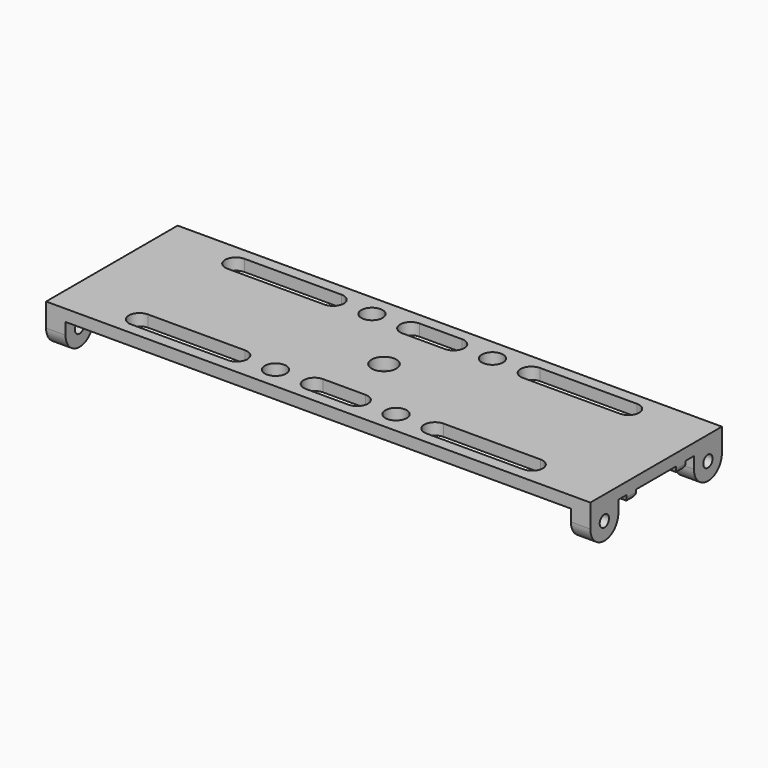
from build123d import *

# Parameters (mm, degrees)
SKETCH030_W     = 42.3
SKETCH030_H     = 3
SKETCH031_W     = 42.3
SKETCH031_H     = 3
SKETCH032_R     = 1.5
PAD014_DEPTH    = 5
SKETCH033_R     = 1.500029
PAD015_DEPTH    = 5
SKETCH038_R     = 2.75
SKETCH038_R_2   = 3.175
POCKET005_DEPTH = 5
SKETCH044_W     = 140
SKETCH044_H     = 3
PAD018_DEPTH    = 2
FILLET004_R     = 1.4
SKETCH046_W     = 15.725
SKETCH046_H     = 15.725
SKETCH046_R     = 3.175
PAD020_DEPTH    = 2
FILLET005_R     = 1.3


with BuildPart() as part:
    # Sketch030 (on Face1 of Binder013) → AdditiveLoft003 section 0
    with BuildSketch(Plane.YZ.offset(-204)):
        with Locations((0, -67.202215)):
            Rectangle(SKETCH030_W, SKETCH030_H)
    # Sketch031 (on Face1 of Binder014) → AdditiveLoft003 section 1
    with BuildSketch(Plane(origin=(-64, 0, 0), x_dir=(0, -1, 0), z_dir=(-1, 0, 0))):
        with Locations((0, -67.202215)):
            Rectangle(SKETCH031_W, SKETCH031_H)
    loft()

    # Sketch032 (on Face1 of Binder014) → Pad014 (new body)
    with BuildSketch(Plane(origin=(-64, 0, 0), x_dir=(0, -1, 0), z_dir=(-1, 0, 0))):
        with BuildLine():
            Line((-12.15, -71.702215), (-12.15, -68.702215))
            Line((-12.15, -68.702215), (-21.15, -68.702215))
            Line((-21.15, -68.702215), (-21.15, -71.702215))
            ThreePointArc((-21.15, -71.702215), (-16.65, -76.202215), (-12.15, -71.702215))
        make_face()
        with Locations((-16.65, -71.702215)):
            Circle(SKETCH032_R, mode=Mode.SUBTRACT)
        with BuildLine():
            Line((12.15, -71.702215), (12.15, -68.702215))
            Line((12.15, -68.702215), (21.15, -68.702215))
            Line((21.15, -68.702215), (21.15, -71.702215))
            ThreePointArc((12.15, -71.702215), (16.65, -76.202215), (21.15, -71.702215))
        make_face()
        with Locations((16.65, -71.702215)):
            Circle(SKETCH032_R, mode=Mode.SUBTRACT)
    extrude(amount=PAD014_DEPTH)

    # Sketch033 (on Face1 of Binder013) → Pad015 (join)
    with BuildSketch(Plane.YZ.offset(-204)):
        with BuildLine():
            Line((-21.15, -71.702215), (-21.15, -68.702215))
            Line((-21.15, -68.702215), (-12.15, -68.702215))
            Line((-12.15, -68.702215), (-12.15, -71.702215))
            ThreePointArc((-21.15, -71.702215), (-16.65, -76.202253), (-12.15, -71.702215))
        make_face()
        with Locations((-16.65, -71.702243)):
            Circle(SKETCH033_R, mode=Mode.SUBTRACT)
        with BuildLine():
            Line((12.15, -71.702215), (12.15, -68.702215))
            Line((12.15, -68.702215), (21.15, -68.702215))
            Line((21.15, -68.702215), (21.15, -71.702215))
            ThreePointArc((12.15, -71.702215), (16.65, -76.202253), (21.15, -71.702215))
        make_face()
        with Locations((16.65, -71.702243)):
            Circle(SKETCH033_R, mode=Mode.SUBTRACT)
    extrude(amount=PAD015_DEPTH)

    # Sketch038 (on Face5 of Pad015) → Pocket005 (cut)
    with BuildSketch(Plane(origin=(0, 0, -68.702215), x_dir=(1, 0, 0), z_dir=(0, 0, -1))):
        with Locations((-149.5, 15.5)):
            Circle(SKETCH038_R)
        with Locations((-118.5, 15.5)):
            Circle(SKETCH038_R)
        with Locations((-118.5, -15.5)):
            Circle(SKETCH038_R)
        with Locations((-149.5, -15.5)):
            Circle(SKETCH038_R)
        with Locations((-134, 0)):
            Circle(SKETCH038_R_2)
        with BuildLine():
            ThreePointArc((-159.5, 12.75), (-156.75, 15.5), (-159.5, 18.25))
            Line((-159.5, 18.25), (-184.5, 18.25))
            ThreePointArc((-184.5, 18.25), (-187.25, 15.5), (-184.5, 12.75))
            Line((-184.5, 12.75), (-159.5, 12.75))
        make_face()
        with BuildLine():
            ThreePointArc((-159.5, -18.25), (-156.75, -15.5), (-159.5, -12.75))
            Line((-159.5, -12.75), (-184.5, -12.75))
            ThreePointArc((-184.5, -12.75), (-187.25, -15.5), (-184.5, -18.25))
            Line((-184.5, -18.25), (-159.5, -18.25))
        make_face()
        with BuildLine():
            ThreePointArc((-108.5, -12.75), (-111.25, -15.5), (-108.5, -18.25))
            Line((-108.5, -18.25), (-83.5, -18.25))
            ThreePointArc((-83.5, -18.25), (-80.75, -15.5), (-83.5, -12.75))
            Line((-83.5, -12.75), (-108.5, -12.75))
        make_face()
        with BuildLine():
            ThreePointArc((-108.5, 18.25), (-111.25, 15.5), (-108.5, 12.75))
            Line((-108.5, 12.75), (-83.5, 12.75))
            ThreePointArc((-83.5, 12.75), (-80.75, 15.5), (-83.5, 18.25))
            Line((-83.5, 18.25), (-108.5, 18.25))
        make_face()
        with BuildLine():
            ThreePointArc((-128.5, 12.75), (-125.75, 15.5), (-128.5, 18.25))
            Line((-128.5, 18.25), (-139.5, 18.25))
            ThreePointArc((-139.5, 18.25), (-142.25, 15.5), (-139.5, 12.75))
            Line((-139.5, 12.75), (-128.5, 12.75))
        make_face()
        with BuildLine():
            ThreePointArc((-139.5, -12.75), (-142.25, -15.5), (-139.5, -18.25))
            Line((-139.5, -18.25), (-128.5, -18.25))
            ThreePointArc((-128.5, -18.25), (-125.75, -15.5), (-128.5, -12.75))
            Line((-128.5, -12.75), (-139.5, -12.75))
        make_face()
    extrude(amount=-POCKET005_DEPTH, mode=Mode.SUBTRACT)

    # Sketch044 (on Face5 of Pocket005) → Pad018 (join)
    with BuildSketch(Plane(origin=(0, 0, -68.702215), x_dir=(1, 0, 0), z_dir=(0, 0, -1))):
        with Locations((-134, 7.9625)):
            Rectangle(SKETCH044_W, SKETCH044_H)
        with Locations((-134, -7.9625)):
            Rectangle(SKETCH044_W, SKETCH044_H)
    extrude(amount=PAD018_DEPTH)

    # Fillet004
    fillet004_edges = [part.edges().sort_by_distance(p)[0] for p in [
        (-134, -9.4625, -70.702215),
        (-64, -7.9625, -70.702215),
        (-134, -6.4625, -70.702215),
        (-204, -7.9625, -70.702215),
        (-134, 6.4625, -70.702215),
        (-204, 7.9625, -70.702215),
        (-134, 9.4625, -70.702215),
        (-64, 7.9625, -70.702215),
    ]]
    fillet(fillet004_edges, radius=FILLET004_R)

    # Sketch046 (on Face8 of Fillet004) → Pad020 (join)
    with BuildSketch(Plane(origin=(0, 0, -68.702215), x_dir=(1, 0, 0), z_dir=(0, 0, -1))):
        with Locations((-134, 0)):
            Rectangle(SKETCH046_W, SKETCH046_H)
        with Locations((-134, 0)):
            Circle(SKETCH046_R, mode=Mode.SUBTRACT)
    extrude(amount=PAD020_DEPTH)

    # Fillet005
    fillet005_edges = [part.edges().sort_by_distance(p)[0] for p in [
        (-126.1375, 0, -70.702215),
        (-141.8625, 0, -70.702215),
    ]]
    fillet(fillet005_edges, radius=FILLET005_R)


solid = part.part
